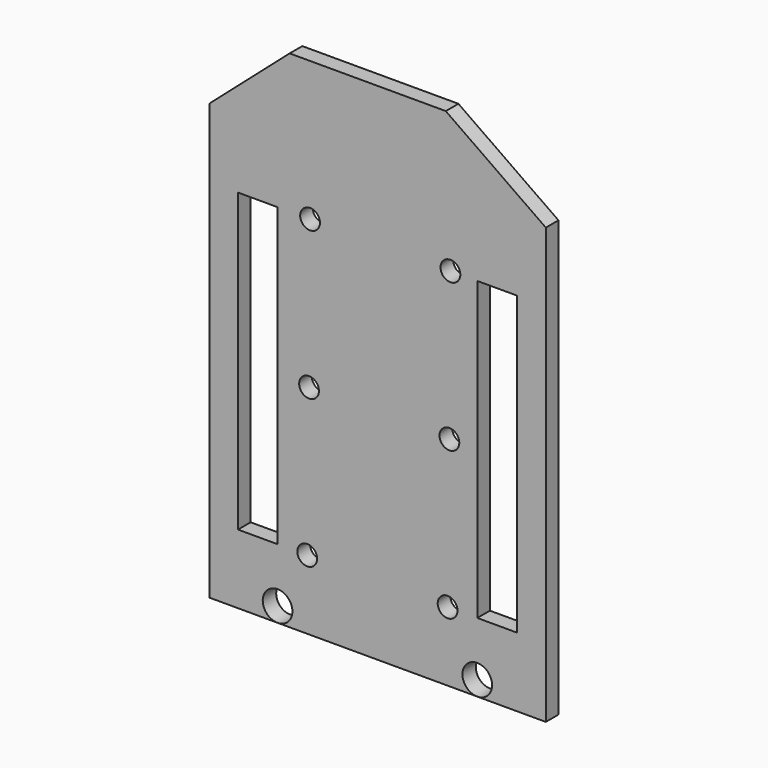
from build123d import *

# Parameters (mm, degrees)
F0_W     = 215.9
F0_H     = 279.4
F1_DEPTH = 10.16
F3_DEPTH = 10.16
F4_W     = 25.4
F4_H     = 190.5
F5_DEPTH = 25.4
F6_R     = 6.35
F7_DEPTH = 25.4
F9_DEPTH = 25.4
F9_TAPER = 3


with BuildPart() as f1:
    # F0 (on Front) → F1 (new body)
    with BuildSketch(Plane.XZ):
        Rectangle(F0_W, F0_H)
    extrude(amount=F1_DEPTH)

    # F2 (on face) → F3 (join)
    with BuildSketch(Plane.XZ.offset(10.16)):
        Polygon((-56.5280616283, 184.6861541271), (-107.95, 139.7), (107.95, 139.7), (43.724745512, 184.6861541271), align=None)
        Polygon((-56.5280616283, 184.6861541271), (-107.95, 139.7), (107.95, 139.7), (43.724745512, 184.6861541271), align=None)
    extrude(amount=-F3_DEPTH)

    # F4 (on face) → F5 (cut)
    with BuildSketch(Plane.XZ.offset(10.16)):
        with Locations((-76.9769162781, 0)):
            Rectangle(F4_W, F4_H)
        with Locations((76.6421729739, 0)):
            Rectangle(F4_W, F4_H)
    extrude(amount=-F5_DEPTH, mode=Mode.SUBTRACT)

    # F6 (on face) → F7 (cut)
    with BuildSketch(Plane.XZ.offset(10.16)):
        with Locations((-43.4066951275, 95.25)):
            Circle(F6_R)
        with Locations((-44.0643727779, 0)):
            Circle(F6_R)
        with Locations((-45.2269162781, -95.25)):
            Circle(F6_R)
        with Locations((46.7125048725, 95.25)):
            Circle(F6_R)
        with Locations((46.0548272221, 0)):
            Circle(F6_R)
        with Locations((44.8922837219, -95.25)):
            Circle(F6_R)
    extrude(amount=-F7_DEPTH, mode=Mode.SUBTRACT)

    # F8 (on face) → F9 (cut)
    with BuildSketch(Plane.XZ.offset(10.16)):
        with BuildLine():
            ThreePointArc((-64.2769162781, -139.7), (-57.5417241873, -136.9101920908), (-54.7519162781, -130.175))
            ThreePointArc((-54.7519162781, -130.175), (-71.0121083689, -123.4398079092), (-64.2769162781, -139.7))
        make_face()
        with BuildLine():
            ThreePointArc((73.4671729739, -130.175), (57.2069809313, -123.439807861), (63.9421728375, -139.7))
            ThreePointArc((63.9421728375, -139.7), (70.6773650165, -136.910192139), (73.4671729739, -130.175))
        make_face()
    extrude(amount=-F9_DEPTH, taper=F9_TAPER, mode=Mode.SUBTRACT)


solid = f1.part
